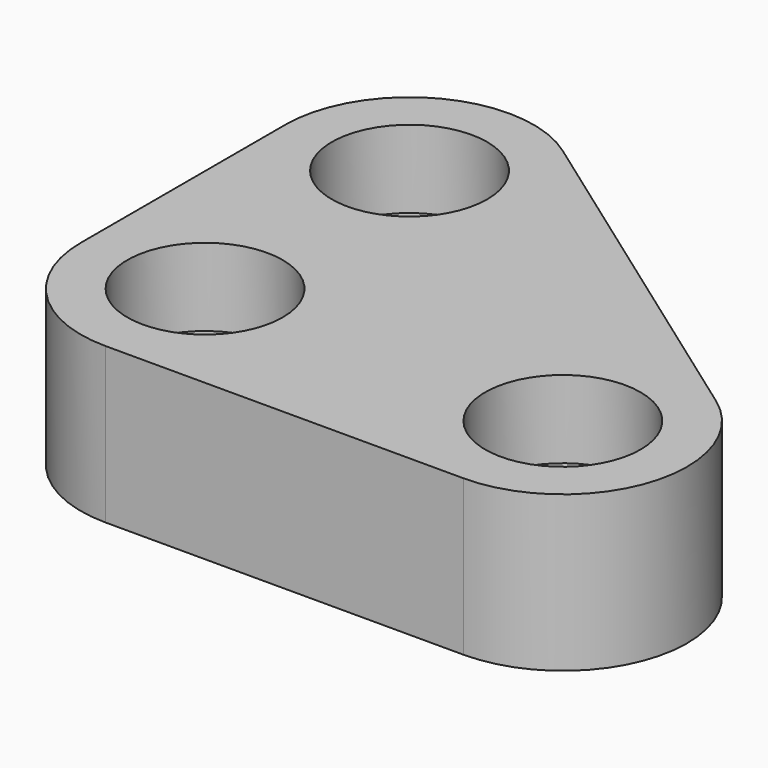
from build123d import *

# Parameters (mm, degrees)
F0_R     = 10
F0_R_2   = 4
F1_DEPTH = 20
F2_R     = 10
F2_R_2   = 4
F3_DEPTH = 10


with BuildPart() as f1:
    # F0 (on Top) → F1 (new body)
    with BuildSketch(Plane.XY):
        with BuildLine():
            ThreePointArc((0, 16), (4.686292, 4.686292), (16, 0))
            Line((16, 0), (62.072559, 0))
            ThreePointArc((62.072559, 0), (77.309287, 11.117161), (71.37237, 29.019736))
            Line((71.37237, 29.019736), (25.299811, 61.928706))
            ThreePointArc((25.299811, 61.928706), (8.678695, 63.135653), (0, 48.908971))
            Line((0, 48.908971), (0, 16))
        make_face()
        with Locations((16, 16)):
            Circle(F0_R, mode=Mode.SUBTRACT)
        with Locations((62.072559, 16)):
            Circle(F0_R, mode=Mode.SUBTRACT)
        with Locations((16, 48.908971)):
            Circle(F0_R, mode=Mode.SUBTRACT)
        with Locations((16, 48.908971)):
            Circle(F0_R)
        with Locations((16, 48.908971)):
            Circle(F0_R_2, mode=Mode.SUBTRACT)
        with Locations((62.072559, 16)):
            Circle(F0_R)
        with Locations((62.072559, 16)):
            Circle(F0_R_2, mode=Mode.SUBTRACT)
        with Locations((16, 16)):
            Circle(F0_R)
        with Locations((16, 16)):
            Circle(F0_R_2, mode=Mode.SUBTRACT)
    extrude(amount=F1_DEPTH)

    # F2 (on face) → F3 (cut)
    with BuildSketch(Plane.XY.offset(20)):
        with Locations((16, 48.908971)):
            Circle(F2_R)
        with Locations((16, 48.908971)):
            Circle(F2_R_2, mode=Mode.SUBTRACT)
        with Locations((16, 16)):
            Circle(F2_R)
        with Locations((16, 16)):
            Circle(F2_R_2, mode=Mode.SUBTRACT)
        with Locations((62.072559, 16)):
            Circle(F2_R)
        with Locations((62.072559, 16)):
            Circle(F2_R_2, mode=Mode.SUBTRACT)
    extrude(amount=-F3_DEPTH, mode=Mode.SUBTRACT)


solid = f1.part
